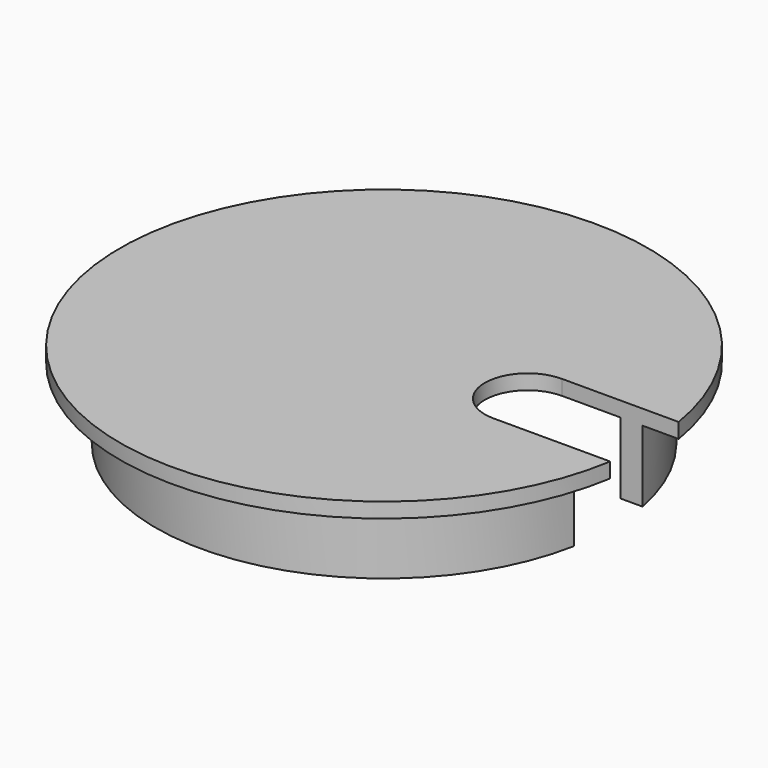
from build123d import *

# Parameters (mm, degrees)
F0_R     = 32
F1_DEPTH = 10
F3_DEPTH = 2.1
F5_DEPTH = 25


with BuildPart() as f1:
    # F0 (on Top) → F1 (new body)
    with BuildSketch(Plane.XY):
        Circle(F0_R)
        with BuildLine():
            ThreePointArc((-1.5, -28.961181), (-29, 0), (-1.5, 28.961181))
            Line((-1.5, 28.961181), (-1.5, -28.961181))
        make_face(mode=Mode.SUBTRACT)
        with BuildLine():
            ThreePointArc((1.5, 28.961181), (29, 0), (1.5, -28.961181))
            Line((1.5, -28.961181), (1.5, 28.961181))
        make_face(mode=Mode.SUBTRACT)
    extrude(amount=F1_DEPTH)

    # F2 (on face) → F3 (join)
    with BuildSketch(Plane.XY.offset(10)):
        with BuildLine():
            Line((20.141127, 6), (36.510273, 6))
            ThreePointArc((36.510273, 6), (-37, 0), (36.510273, -6))
            Line((36.510273, -6), (20.141127, -6))
            ThreePointArc((20.141127, -6), (14.141127, 0), (20.141127, 6))
        make_face()
    extrude(amount=F3_DEPTH)

    # F4 (on face) → F5 (cut)
    with BuildSketch(Plane.XY.offset(10)):
        with BuildLine():
            Line((36.510273, 6), (20.141127, 6))
            ThreePointArc((20.141127, 6), (14.141127, 0), (20.141127, -6))
            Line((20.141127, -6), (36.510273, -6))
            Line((36.510273, -6), (36.510273, 6))
        make_face()
    extrude(amount=-F5_DEPTH, mode=Mode.SUBTRACT)


solid = f1.part
